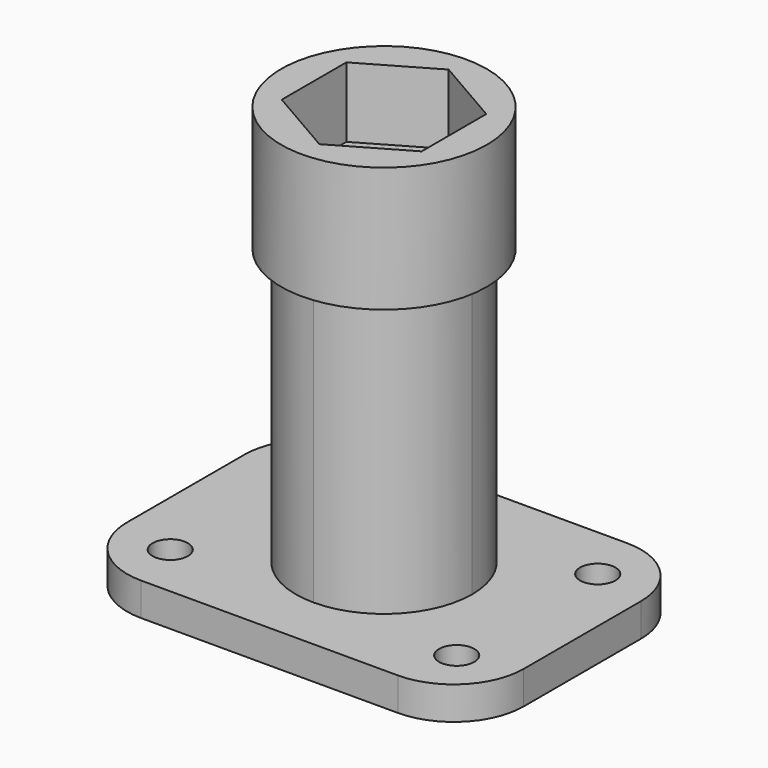
from build123d import *

# Parameters (mm, degrees)
F1_DEPTH = 3
F2_DEPTH = 25
F3_DEPTH = 30
F4_D     = 3.2
F5_R     = 9.3323484187
F6_DEPTH = 6.35
F7_DEPTH = 5


with BuildPart() as f1:
    # F0 (on Top) → F1 (new body)
    with BuildSketch(Plane.XY):
        with BuildLine():
            Line((-18, 6.65), (-18, -6.65))
            ThreePointArc((-18, -6.65), (-16.1401280605, -11.1401280605), (-11.65, -13))
            Line((-11.65, -13), (11.65, -13))
            ThreePointArc((11.65, -13), (16.1401280605, -11.1401280605), (18, -6.65))
            Line((18, -6.65), (18, 6.65))
            ThreePointArc((18, 6.65), (16.1401280605, 11.1401280605), (11.65, 13))
            Line((11.65, 13), (-11.65, 13))
            ThreePointArc((-11.65, 13), (-16.1401280605, 11.1401280605), (-18, 6.65))
        make_face()
        with BuildLine():
            ThreePointArc((0, 8), (5.6568542495, 5.6568542495), (8, 0))
            ThreePointArc((8, 0), (5.6568542495, -5.6568542495), (0, -8))
            ThreePointArc((0, -8), (-5.6568542495, -5.6568542495), (-8, 0))
            ThreePointArc((-8, 0), (-5.6568542495, 5.6568542495), (0, 8))
        make_face(mode=Mode.SUBTRACT)
        with BuildLine():
            ThreePointArc((0, 5), (3.5355339059, 3.5355339059), (5, 0))
            Line((5, 0), (8, 0))
            ThreePointArc((8, 0), (5.6568542495, 5.6568542495), (0, 8))
            Line((0, 8), (0, 5))
        make_face()
        with BuildLine():
            ThreePointArc((-5, 0), (-3.5355339059, 3.5355339059), (0, 5))
            Line((0, 5), (0, 8))
            ThreePointArc((0, 8), (-5.6568542495, 5.6568542495), (-8, 0))
            Line((-8, 0), (-5, 0))
        make_face()
        with BuildLine():
            Line((0, -8), (0, -5))
            ThreePointArc((0, -5), (-3.5355339059, -3.5355339059), (-5, 0))
            Line((-5, 0), (-8, 0))
            ThreePointArc((-8, 0), (-5.6568542495, -5.6568542495), (0, -8))
        make_face()
        with BuildLine():
            Line((8, 0), (5, 0))
            ThreePointArc((5, 0), (3.5355339059, -3.5355339059), (0, -5))
            Line((0, -5), (0, -8))
            ThreePointArc((0, -8), (5.6568542495, -5.6568542495), (8, 0))
        make_face()
    extrude(amount=-F1_DEPTH)

    # F0 (on Top) → F2 (join)
    with BuildSketch(Plane.XY):
        with BuildLine():
            Line((0, -8), (0, -5))
            ThreePointArc((0, -5), (-3.5355339059, -3.5355339059), (-5, 0))
            Line((-5, 0), (-8, 0))
            ThreePointArc((-8, 0), (-5.6568542495, -5.6568542495), (0, -8))
        make_face()
        with BuildLine():
            ThreePointArc((0, 5), (3.5355339059, 3.5355339059), (5, 0))
            Line((5, 0), (8, 0))
            ThreePointArc((8, 0), (5.6568542495, 5.6568542495), (0, 8))
            Line((0, 8), (0, 5))
        make_face()
    extrude(amount=F2_DEPTH)

    # F4 (through all)
    with Locations(Plane.XY):
        with Locations((13, -8), (13, 8), (-13, 8), (-13, -8)):
            Hole(F4_D / 2)


with BuildPart() as f3:
    # F0 (on Top) → F3 (new body)
    with BuildSketch(Plane.XY):
        with BuildLine():
            Line((8, 0), (5, 0))
            ThreePointArc((5, 0), (3.5355339059, -3.5355339059), (0, -5))
            Line((0, -5), (0, -8))
            ThreePointArc((0, -8), (5.6568542495, -5.6568542495), (8, 0))
        make_face()
    extrude(amount=F3_DEPTH)



with BuildPart() as f3b:
    # F0 (on Top) → F3, piece 2 (new body)
    with BuildSketch(Plane.XY):
        with BuildLine():
            ThreePointArc((-5, 0), (-3.5355339059, 3.5355339059), (0, 5))
            Line((0, 5), (0, 8))
            ThreePointArc((0, 8), (-5.6568542495, 5.6568542495), (-8, 0))
            Line((-8, 0), (-5, 0))
        make_face()
    extrude(amount=F3_DEPTH)


with BuildPart() as f3_1:
    add(f3.part)

    add(f3b.part)  # F6 merges F3b
    # F5 (on face) → F6 (join)
    with BuildSketch(Plane.XY.offset(30)):
        Circle(F5_R)
        Polygon((0, 7.3323484187), (6.35, 3.6661742094), (6.35, -3.6661742094), (0, -7.3323484187), (-6.35, -3.6661742094), (-6.35, 3.6661742094), align=None, mode=Mode.SUBTRACT)
    extrude(amount=F6_DEPTH)

    # F7 (add): a face of the model
    f7_faces = [f3_1.faces().sort_by_distance(p)[0] for p in [
        (-9.0683897447, 0, 30),
    ]]
    extrude(f7_faces, amount=F7_DEPTH)


solid = Compound([f1.part, f3_1.part])
